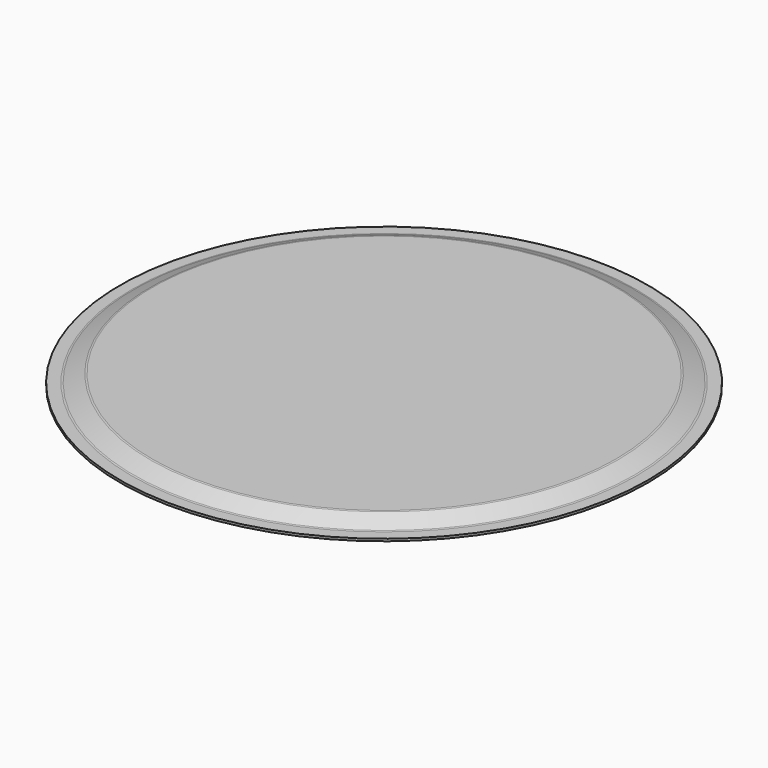
from build123d import *


with BuildPart() as f1:
    # F0 (on Front) → F1 (revolve)
    with BuildSketch(Plane.XZ):
        with BuildLine():
            Line((354.241407, 0), (0, 0))
            Line((0, 0), (0, -3.429))
            Line((0, -3.429), (354.86636, -3.429))
            Line((354.86636, -3.429), (381.278287, -15.272914))
            ThreePointArc((381.278287, -15.272914), (383.233662, -15.912584), (385.279593, -16.129))
            Line((385.279593, -16.129), (402.971, -16.129))
            Line((402.971, -16.129), (402.971, -12.7))
            Line((402.971, -12.7), (385.279593, -12.7))
            ThreePointArc((385.279593, -12.7), (383.951067, -12.55947), (382.681342, -12.1441))
            Line((382.681342, -12.1441), (356.839658, -0.5559))
            ThreePointArc((356.839658, -0.5559), (355.569933, -0.14053), (354.241407, 0))
        make_face()
    revolve(axis=Axis((0, 0, -1.7145), (0, 0, -1)))


solid = f1.part
